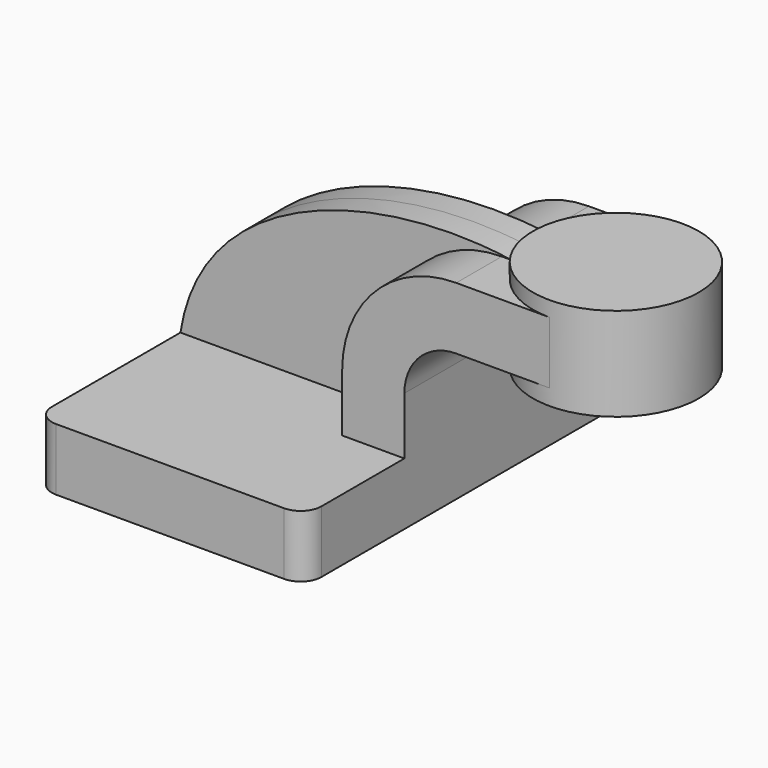
from build123d import *

# Parameters (mm, degrees)
F1_DEPTH = 63.5
F0_W     = 25.4
F0_H     = 19.05
F2_DEPTH = 25.4
F3_DEPTH = 7.9375
F5_R     = 6.35


with BuildPart() as f1:
    # F0 (on Front) → F1 (new body, symmetric)
    with BuildSketch(Plane.XZ):
        Polygon((-41.275, -9.525), (41.275, -9.525), (41.275, 9.525), (22.225, 9.525), (-41.275, 9.525), align=None)
    extrude(amount=F1_DEPTH, both=True)

    # F0 (on Front) → F2 (join, symmetric)
    with BuildSketch(Plane.XZ):
        with BuildLine():
            Line((22.225, 9.525), (41.275, 9.525))
            Line((41.275, 9.525), (41.275, 27.10419))
            ThreePointArc((41.275, 27.10419), (45.92468, 38.32951), (57.15, 42.97919))
            Line((57.15, 42.97919), (60.325, 42.97919))
            Line((60.325, 42.97919), (60.325, 62.02919))
            Line((60.325, 62.02919), (57.15, 62.02919))
            ThreePointArc((57.15, 62.02919), (32.454296, 51.799894), (22.225, 27.10419))
            Line((22.225, 27.10419), (22.225, 9.525))
        make_face()
        with Locations((73.025, 52.50419)):
            Rectangle(F0_W, F0_H)
    extrude(amount=F2_DEPTH, both=True)

    # F0 (on Front) → F3 (join, symmetric)
    with BuildSketch(Plane.XZ):
        with BuildLine():
            add(Edge.make_bspline(
                [(-41.275, 9.525), (-34.716684, 52.690328), (18.733253, 68.238799), (60.325, 62.02919)],
                knots=[0, 0, 0, 0, 114.364549, 114.364549, 114.364549, 114.364549], degree=3))
            Line((-41.275, 9.525), (22.225, 9.525))
            Line((22.225, 9.525), (22.225, 27.10419))
            ThreePointArc((22.225, 27.10419), (32.454296, 51.799894), (57.15, 62.02919))
            Line((57.15, 62.02919), (60.325, 62.02919))
        make_face()
    extrude(amount=F3_DEPTH, both=True)

    # F0 (on Front) → F4 (revolve)
    with BuildSketch(Plane.XZ):
        Polygon((85.725, 66.675), (85.725, 62.02919), (85.725, 42.97919), (85.725, 38.1), (111.125, 38.1), (111.125, 66.675), align=None)
    revolve(axis=Axis((85.725, 0, 52.3875), (0, 0, 1)))

    # F5
    f5_edges = [f1.edges().sort_by_distance(p)[0] for p in [
        (41.275, -63.5, 0),
        (41.275, 63.5, 0),
        (-41.275, -63.5, 0),
        (-41.275, 63.5, 0),
    ]]
    fillet(f5_edges, radius=F5_R)


solid = f1.part
